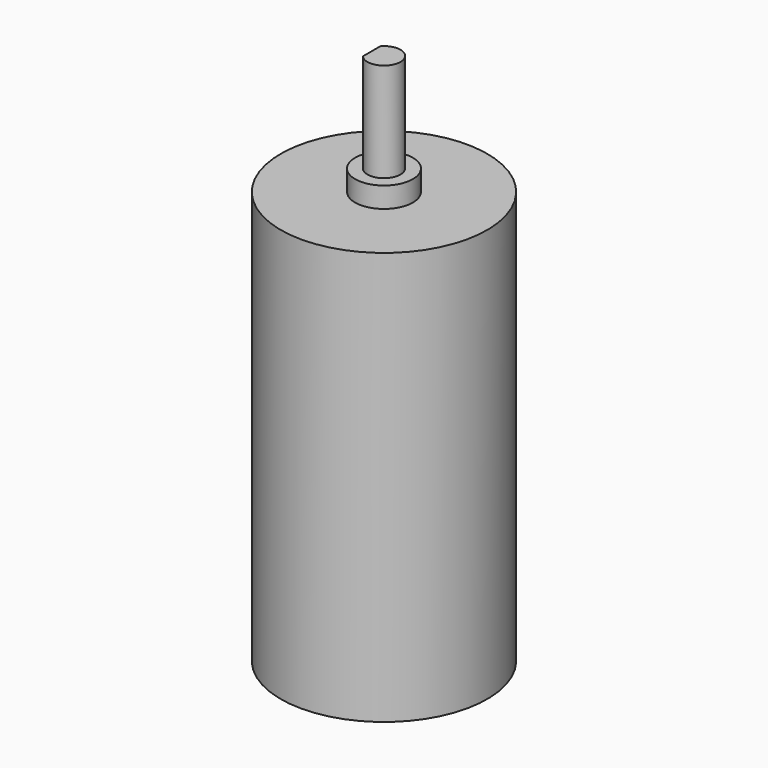
from build123d import *

# Parameters (mm, degrees)
F3_DEPTH = 8


with BuildPart() as f1:
    # F0 (on Right) → F1 (revolve)
    with BuildSketch(Plane.YZ):
        Polygon((-12.5, -25.536002), (0, -25.536002), (0, 38.963998), (-2, 38.963998), (-2, 26.963998), (-3.5, 26.963998), (-3.5, 24.463998), (-12.5, 24.463998), align=None)
    revolve(axis=Axis((0, 0, 6.713998), (0, 0, -1)))

    # F2 (on face) → F3 (cut)
    with BuildSketch(Plane.XY.offset(38.963998)):
        with BuildLine():
            Line((-1.5, -1.322876), (-1.5, 1.322876))
            ThreePointArc((-1.5, 1.322876), (-2, 0), (-1.5, -1.322876))
        make_face()
    extrude(amount=-F3_DEPTH, mode=Mode.SUBTRACT)


solid = f1.part
